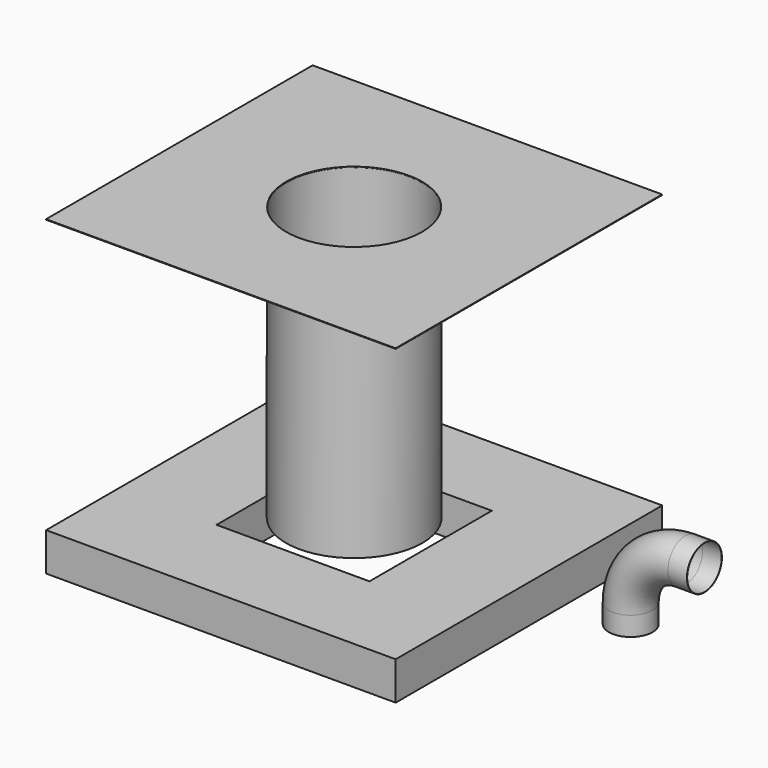
from build123d import *

# Parameters (mm, degrees)
F0_W      = 640
F0_H      = 610
F0_W_2    = 280
F0_H_2    = 280
F1_DEPTH  = 70
F2_R      = 125
F2_R_2    = 124.5
F3_DEPTH  = 500
F4_R      = 40
F4_R_2    = 39.5
F5_ANGLE  = -90
F6_R      = 40
F6_R_2    = 39.5
F7_DEPTH  = 35
F8_R      = 40
F8_R_2    = 39.5
F9_DEPTH  = 35
F10_W     = 640
F10_H     = 610
F10_R     = 124.5
F11_DEPTH = 1


with BuildPart() as f1:
    # F0 (on Top) → F1 (new body)
    with BuildSketch(Plane.XY):
        with Locations((-127.38312, 68.195768)):
            Rectangle(F0_W, F0_H)
        with Locations((-127.38312, 68.195768)):
            Rectangle(F0_W_2, F0_H_2, mode=Mode.SUBTRACT)
    extrude(amount=F1_DEPTH)


with BuildPart() as f3:
    # F2 (on face) → F3 (new body)
    with BuildSketch(Plane.XY.offset(70)):
        with Locations((-127.38312, 68.195768)):
            Circle(F2_R)
        with Locations((-127.38312, 68.195768)):
            Circle(F2_R_2, mode=Mode.SUBTRACT)
    extrude(amount=F3_DEPTH)

    # F10 (on face) → F11 (join)
    with BuildSketch(Plane.XY.offset(570)):
        with Locations((-127.745472, 68.541134)):
            Rectangle(F10_W, F10_H)
        with Locations((-127.745472, 68.541134)):
            Circle(F10_R, mode=Mode.SUBTRACT)
    extrude(amount=F11_DEPTH)


with BuildPart() as f5:
    # F4 (on face) → F5 (revolve)
    with BuildSketch(Plane.XY.offset(70)):
        with Locations((345.010722, 110.593185)):
            Circle(F4_R)
        with Locations((345.010722, 110.593185)):
            Circle(F4_R_2, mode=Mode.SUBTRACT)
    revolve(axis=Axis((445.010722, 110.443847, 70), (0, -1, 0)), revolution_arc=F5_ANGLE)

    # F6 (on face) → F7 (join)
    with BuildSketch(Plane.YZ.offset(445.010722)):
        with Locations((110.593185, 170)):
            Circle(F6_R)
        with Locations((110.593185, 170)):
            Circle(F6_R_2, mode=Mode.SUBTRACT)
    extrude(amount=F7_DEPTH)

    # F8 (on face) → F9 (join)
    with BuildSketch(Plane(origin=(0, 0, 70), x_dir=(1, 0, 0), z_dir=(0, 0, -1))):
        with Locations((345.010722, -110.593185)):
            Circle(F8_R)
        with Locations((345.010722, -110.593185)):
            Circle(F8_R_2, mode=Mode.SUBTRACT)
    extrude(amount=F9_DEPTH)


solid = Compound([f1.part, f3.part, f5.part])
